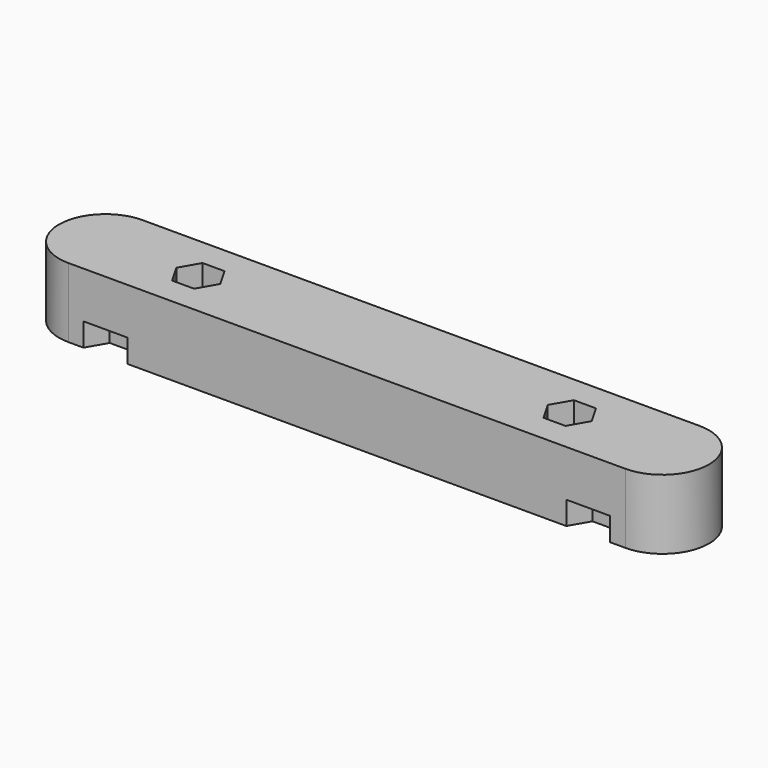
from build123d import *

# Parameters (mm, degrees)
SKETCH_R        = 1.75
PAD_DEPTH       = 15
POCKET_DEPTH    = 8
POCKET001_DEPTH = 5


with BuildPart() as part:
    # Sketch → Pad (new body)
    with BuildSketch(Plane.XY):
        with BuildLine():
            ThreePointArc((-60.000035, 10), (-70, -1.7e-05), (-60, -10))
            Line((-60, -10), (60, -10))
            ThreePointArc((60, -10), (70, 1.5e-05), (59.999971, 10))
            Line((-60.000035, 10), (59.999971, 10))
        make_face()
        with Locations((40, 0)):
            Circle(SKETCH_R, mode=Mode.SUBTRACT)
        with Locations((-40, 0)):
            Circle(SKETCH_R, mode=Mode.SUBTRACT)
    extrude(amount=PAD_DEPTH)

    # Sketch001 → Pocket (cut)
    with BuildSketch(Plane.XY.offset(15)):
        Polygon((-42.367136, 4.1), (-37.632864, 4.1), (-35.265728, 0), (-37.632864, -4.1), (-42.367136, -4.1), (-44.734272, 0), align=None)
        Polygon((37.632864, 4.1), (42.367136, 4.1), (44.734272, 0), (42.367136, -4.1), (37.632864, -4.1), (35.265728, 0), align=None)
    extrude(amount=-POCKET_DEPTH, mode=Mode.SUBTRACT)

    # Sketch002 → Pocket001 (cut)
    with BuildSketch(Plane(origin=(0, 0, 0), x_dir=(1, 0, 0), z_dir=(0, 0, -1))):
        Polygon((-54.367136, 14.1), (-49.632864, 14.1), (-47.265728, 10), (-49.632864, 5.9), (-54.367136, 5.9), (-56.734272, 10), align=None)
        Polygon((49.632864, 14.1), (54.367136, 14.1), (56.734272, 10), (54.367136, 5.9), (49.632864, 5.9), (47.265728, 10), align=None)
    extrude(amount=-POCKET001_DEPTH, mode=Mode.SUBTRACT)


solid = part.part
